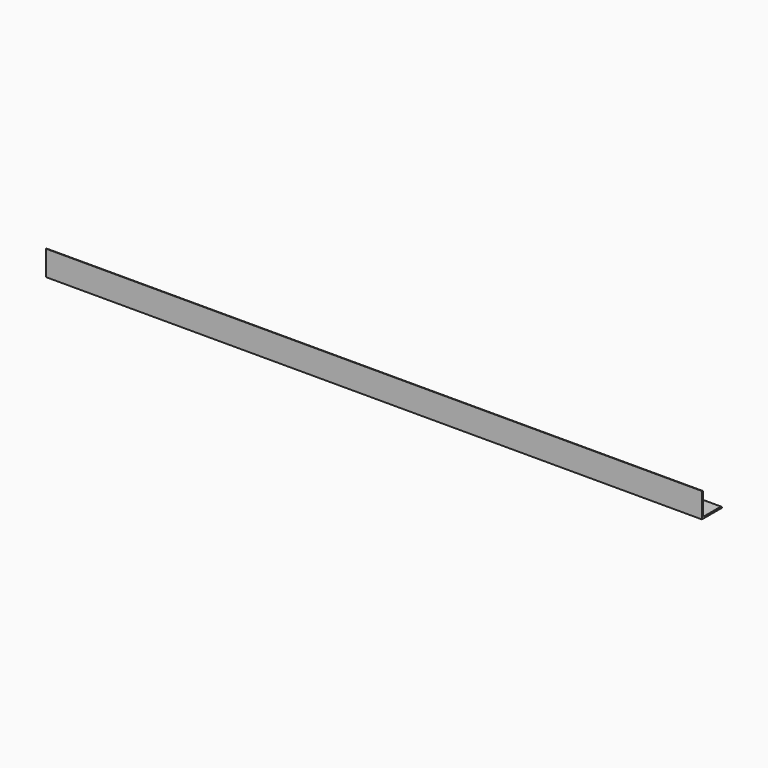
from build123d import *

# Parameters (mm, degrees)
F1_DEPTH = 786


with BuildPart() as f1:
    # F0 (on Right) → F1 (new body)
    with BuildSketch(Plane.YZ):
        with BuildLine():
            Line((0, 30), (0, 0))
            Line((0, 0), (30, 0))
            ThreePointArc((30, 0), (29.414214, 1.414214), (28, 2))
            Line((28, 2), (4, 2))
            ThreePointArc((4, 2), (2.585786, 2.585786), (2, 4))
            Line((2, 4), (2, 28))
            ThreePointArc((2, 28), (1.414214, 29.414214), (0, 30))
        make_face()
    extrude(amount=F1_DEPTH)


solid = f1.part
